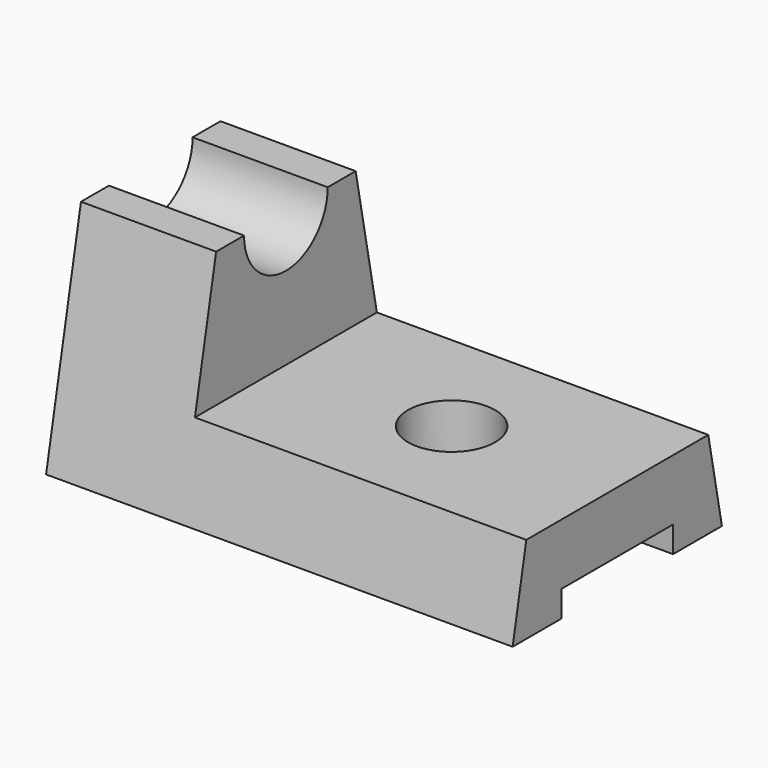
from build123d import *

# Parameters (mm, degrees)
F1_DEPTH = 271.78
F2_W     = 193.04
F2_H     = 25.4
F2_H_2   = 20.32
F2_H_3   = 106.68
F3_DEPTH = 78.74
F4_R     = 25.4
F5_DEPTH = 76.2


with BuildPart() as f1:
    # F0 (on Right) → F1 (new body)
    with BuildSketch(Plane.YZ):
        with BuildLine():
            Line((-40.64, 0), (0, 0))
            Line((0, 0), (40.64, 0))
            Line((40.64, 0), (40.64, -15.24))
            Line((40.64, -15.24), (76.2, -15.24))
            Line((76.2, -15.24), (50.8, 114.3))
            Line((50.8, 114.3), (30.48, 114.3))
            ThreePointArc((30.48, 114.3), (0, 83.82), (-30.48, 114.3))
            Line((-30.48, 114.3), (-50.8, 114.3))
            Line((-50.8, 114.3), (-76.2, -15.24))
            Line((-76.2, -15.24), (-40.64, -15.24))
            Line((-40.64, -15.24), (-40.64, 0))
        make_face()
    extrude(amount=F1_DEPTH)

    # F2 (on face) → F3 (cut)
    with BuildSketch(Plane.XY.offset(114.3)):
        with Locations((175.26, 63.5)):
            Rectangle(F2_W, F2_H)
        with Locations((175.26, 40.64)):
            Rectangle(F2_W, F2_H_2)
        with Locations((175.26, -22.86)):
            Rectangle(F2_W, F2_H_3)
    extrude(amount=-F3_DEPTH, mode=Mode.SUBTRACT)

    # F4 (on face) → F5 (cut)
    with BuildSketch(Plane.XY.offset(35.56)):
        with Locations((175.26, 0)):
            Circle(F4_R)
    extrude(amount=-F5_DEPTH, mode=Mode.SUBTRACT)


solid = f1.part
